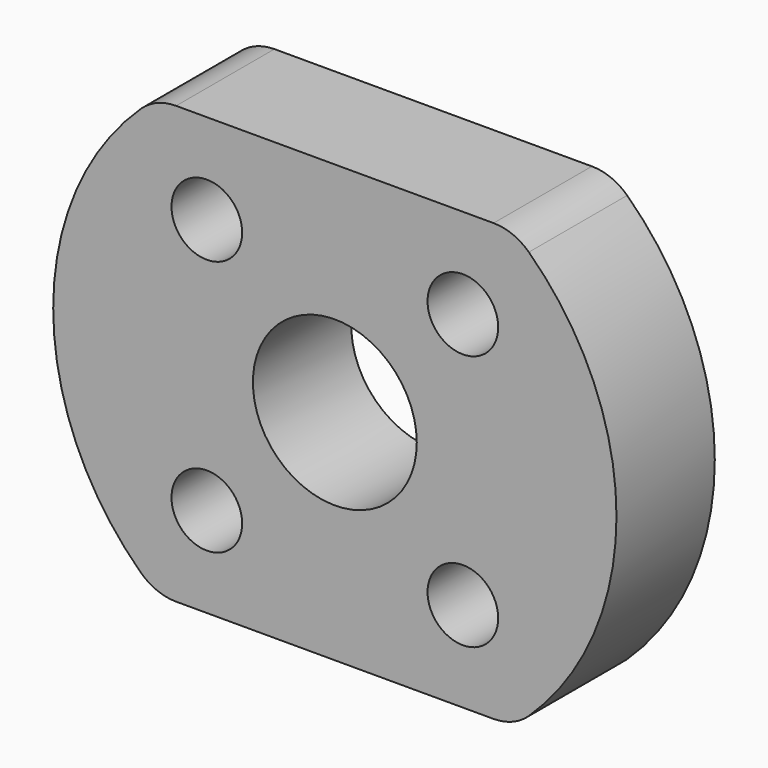
from build123d import *

# Parameters (mm, degrees)
F0_R     = 3.45
F0_R_2   = 8
F1_DEPTH = 12
F2_R     = 5


with BuildPart() as f1:
    # F0 (on Front) → F1 (new body)
    with BuildSketch(Plane.XZ):
        with BuildLine():
            Line((17.381601, 21.310325), (-17.381601, 21.310325))
            ThreePointArc((-17.381601, 21.310325), (-27.5, 0), (-17.381601, -21.310325))
            Line((-17.381601, -21.310325), (17.381601, -21.310325))
            ThreePointArc((17.381601, -21.310325), (27.5, 0), (17.381601, 21.310325))
        make_face()
        with Locations((-12.5, -12.5)):
            Circle(F0_R, mode=Mode.SUBTRACT)
        with Locations((12.5, -12.5)):
            Circle(F0_R, mode=Mode.SUBTRACT)
        Circle(F0_R_2, mode=Mode.SUBTRACT)
        with Locations((-12.5, 12.5)):
            Circle(F0_R, mode=Mode.SUBTRACT)
        with Locations((12.5, 12.5)):
            Circle(F0_R, mode=Mode.SUBTRACT)
    extrude(amount=F1_DEPTH)

    # F2
    f2_edges = [f1.edges().sort_by_distance(p)[0] for p in [
        (-17.381601, -6, 21.310325),
        (17.381601, -6, 21.310325),
        (17.381601, -6, -21.310325),
        (-17.381601, -6, -21.310325),
    ]]
    fillet(f2_edges, radius=F2_R)


solid = f1.part
